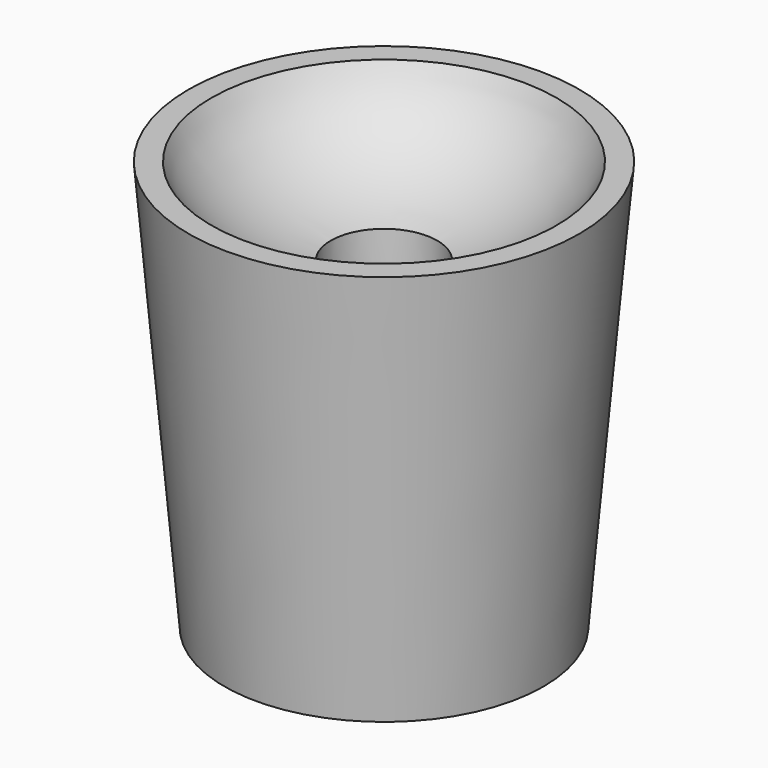
from build123d import *

# Parameters (mm, degrees)
F0_R     = 17.5
F1_DEPTH = 45
F1_TAPER = -5
F3_R     = 6
F4_DEPTH = 35
F4_TAPER = 1
F5_SIZE  = 5


with BuildPart() as f1:
    # F0 (on Top) → F1 (new body)
    with BuildSketch(Plane.XY):
        Circle(F0_R)
    extrude(amount=F1_DEPTH, taper=F1_TAPER)

    # F3 (on face) → F4 (cut)
    with BuildSketch(Plane.XY.offset(45)):
        Circle(F3_R)
    extrude(amount=-F4_DEPTH, taper=F4_TAPER, mode=Mode.SUBTRACT)

    # F5
    f5_edges = [f1.edges().sort_by_distance(p)[0] for p in [
        (-5.389073, 0, 10),
    ]]
    chamfer(f5_edges, length=F5_SIZE)

    # F2 (on Front) → F6 (revolve, cut)
    with BuildSketch(Plane.XZ):
        with BuildLine():
            Line((0, 34.8251537271), (0, 64.8251537271))
            add(Edge.make_bspline(
                [(0, 64.8251537271), (-20, 64.8251537271), (-20, 49.8251537271), (-20, 34.8251537271), (0, 34.8251537271)],
                knots=[1.5707963268, 1.5707963268, 1.5707963268, 3.1415926536, 3.1415926536, 4.7123889804, 4.7123889804, 4.7123889804], degree=2, weights=[1, 0.7071067812, 1, 0.7071067812, 1]))
        make_face()
    revolve(axis=Axis((0, 0, 39.5477935672), (0, 0, 1)), mode=Mode.SUBTRACT)


solid = f1.part
